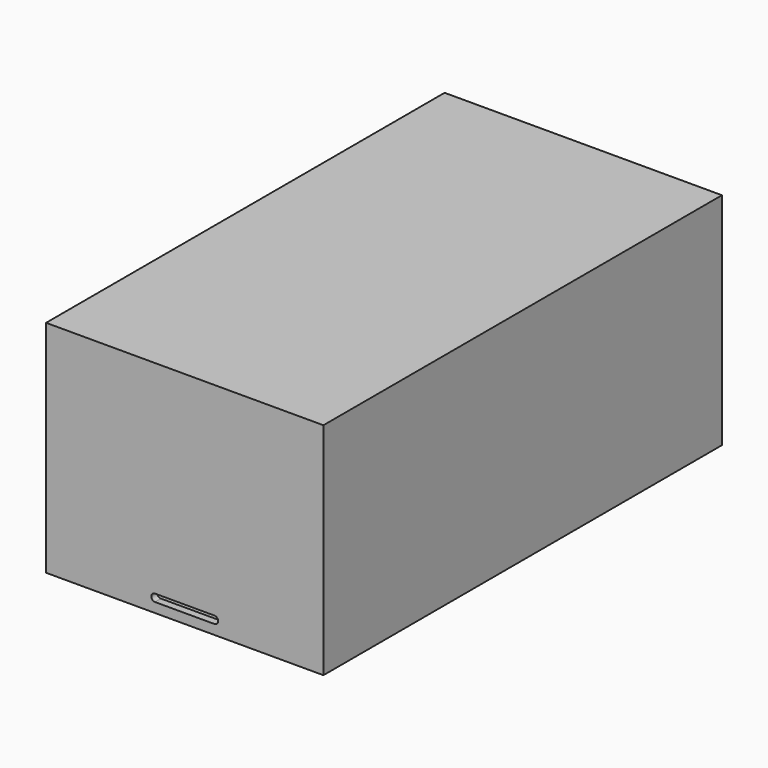
from build123d import *

# Parameters (mm, degrees)
F0_W     = 373
F0_H     = 296
F1_DEPTH = 670
F2_T     = -10
F4_DEPTH = 25


with BuildPart() as f1:
    # F0 (on Front) → F1 (new body)
    with BuildSketch(Plane.XZ):
        Rectangle(F0_W, F0_H)
    extrude(amount=F1_DEPTH)

    # F2
    f2_openings = [f1.faces().sort_by_distance(p)[0] for p in [
        (0, 0, 0),
    ]]
    offset(amount=F2_T, openings=f2_openings)

    # F3 (on face) → F4 (cut)
    with BuildSketch(Plane.XZ.offset(670)):
        with BuildLine():
            ThreePointArc((-40, -125), (-45, -130), (-40, -135))
            Line((-40, -135), (40, -135))
            ThreePointArc((40, -135), (45, -130), (40, -125))
            Line((40, -125), (-40, -125))
        make_face()
    extrude(amount=-F4_DEPTH, mode=Mode.SUBTRACT)


solid = f1.part
